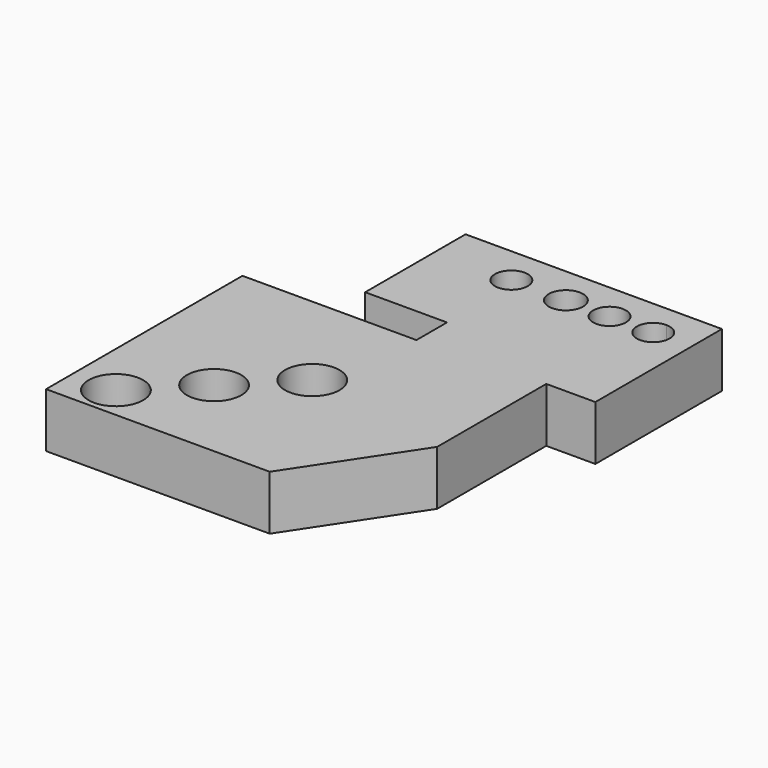
from build123d import *

# Parameters (mm, degrees)
F0_R     = 12.5
F0_R_2   = 7.5
F0_R_3   = 7.856411
F1_DEPTH = 25


with BuildPart() as f1:
    # F0 (on Top) → F1 (new body)
    with BuildSketch(Plane.XY):
        Polygon((-102.246153, -46.14825), (-102.246153, -86.14825), (-82.246153, -86.14825), (-57.246153, -86.14825), (-32.246153, -86.14825), (0.253847, -86.14825), (35, -33.64825), (35, 28.85175), (57.5, 28.85175), (57.5, 83.85175), (57.5, 101.35175), (40, 101.35175), (20, 101.35175), (0, 101.35175), (-25, 101.35175), (-60, 101.35175), (-60, 43.85175), (-22.5, 43.85175), (-22.5, 26.35175), (-102.246153, 26.35175), (-102.246153, -21.14825), align=None)
        with Locations((-82.246153, -71.14825)):
            Circle(F0_R, mode=Mode.SUBTRACT)
        with Locations((-57.246153, -46.14825)):
            Circle(F0_R, mode=Mode.SUBTRACT)
        with Locations((-32.246153, -21.14825)):
            Circle(F0_R, mode=Mode.SUBTRACT)
        with Locations((-25, 83.85175)):
            Circle(F0_R_2, mode=Mode.SUBTRACT)
        with Locations((0, 83.85175)):
            Circle(F0_R_3, mode=Mode.SUBTRACT)
        with Locations((20, 83.85175)):
            Circle(F0_R_2, mode=Mode.SUBTRACT)
        with BuildLine():
            ThreePointArc((47.5, 83.85175), (34.696699, 78.548449), (40, 91.35175))
            ThreePointArc((40, 91.35175), (45.303301, 89.15505), (47.5, 83.85175))
        make_face(mode=Mode.SUBTRACT)
    extrude(amount=F1_DEPTH)


solid = f1.part
